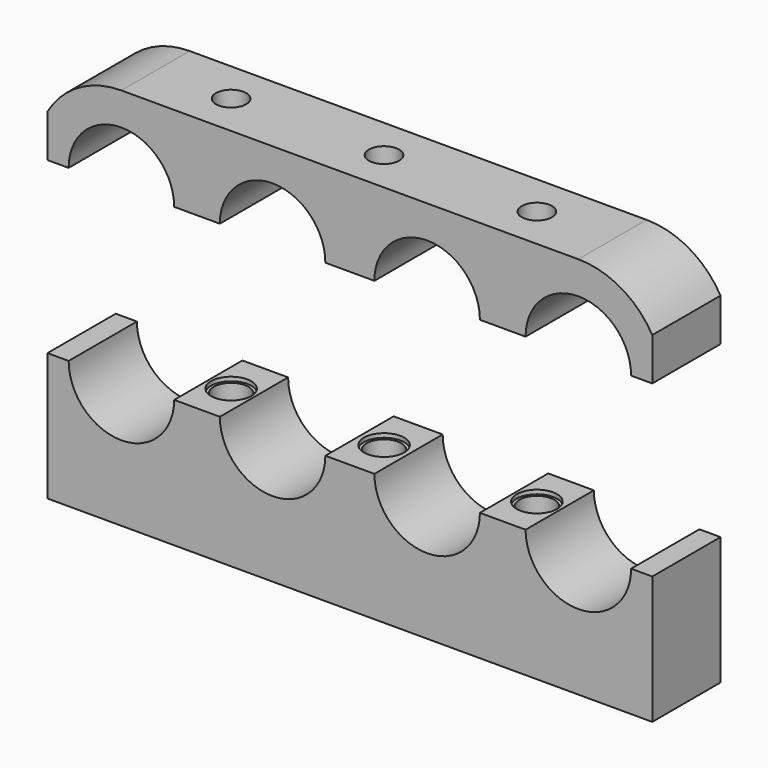
from build123d import *

# Parameters (mm, degrees)
F0_W      = 90
F0_H      = 19.05
F1_DEPTH  = 12.7
F2_R      = 7.85
F3_DEPTH  = 25.4
F4_W      = 90
F4_H      = 12.7
F5_DEPTH  = 12.7
F6_R      = 7.85
F7_DEPTH  = 25.4
F8_R      = 2.25
F9_DEPTH  = 25.4
F10_R     = 2.5908
F11_DEPTH = 20
F12_R     = 3
F13_DEPTH = 0.5
F14_DEPTH = 0.6
F16_DEPTH = 12.7


with BuildPart() as f1:
    # F0 (on Front) → F1 (new body)
    with BuildSketch(Plane.XZ):
        Rectangle(F0_W, F0_H)
    extrude(amount=F1_DEPTH)

    # F2 (on face) → F3 (cut)
    with BuildSketch(Plane.XZ.offset(12.7)):
        with Locations((-34, 9.525)):
            Circle(F2_R)
        with Locations((-11.5, 9.525)):
            Circle(F2_R)
        with Locations((11.5, 9.525)):
            Circle(F2_R)
        with Locations((34, 9.525)):
            Circle(F2_R)
    extrude(amount=-F3_DEPTH, mode=Mode.SUBTRACT)

    # F10 (on face) → F11 (cut)
    with BuildSketch(Plane.XY.offset(9.525)):
        with Locations((-22.75, -6.35)):
            Circle(F10_R)
        with Locations((0, -6.35)):
            Circle(F10_R)
        with Locations((22.75, -6.35)):
            Circle(F10_R)
    extrude(amount=-F11_DEPTH, mode=Mode.SUBTRACT)

    # F12 (on face) → F13 (cut)
    with BuildSketch(Plane.XY.offset(9.525)):
        with Locations((-22.75, -6.35)):
            Circle(F12_R)
        with Locations((22.75, -6.35)):
            Circle(F12_R)
        with Locations((0, -6.339623)):
            Circle(F12_R)
    extrude(amount=-F13_DEPTH, mode=Mode.SUBTRACT)

    # F12 (on face) → F14 (cut)
    with BuildSketch(Plane.XY.offset(9.525)):
        with Locations((-22.75, -6.35)):
            Circle(F12_R)
        with Locations((22.75, -6.35)):
            Circle(F12_R)
        with Locations((0, -6.339623)):
            Circle(F12_R)
    extrude(amount=-F14_DEPTH, mode=Mode.SUBTRACT)


with BuildPart() as f5:
    # F4 (on Front) → F5 (new body)
    with BuildSketch(Plane.XZ):
        with Locations((0, 41.162375)):
            Rectangle(F4_W, F4_H)
    extrude(amount=F5_DEPTH)

    # F6 (on face) → F7 (cut)
    with BuildSketch(Plane.XZ.offset(12.7)):
        with Locations((-34, 34.812375)):
            Circle(F6_R)
        with Locations((-11.5, 34.812375)):
            Circle(F6_R)
        with Locations((11.5, 34.812375)):
            Circle(F6_R)
        with Locations((34, 34.812375)):
            Circle(F6_R)
    extrude(amount=-F7_DEPTH, mode=Mode.SUBTRACT)

    # F8 (on face) → F9 (cut)
    with BuildSketch(Plane.XY.offset(47.512375)):
        with Locations((-22.75, -6.35)):
            Circle(F8_R)
        with Locations((0, -6.35)):
            Circle(F8_R)
        with Locations((22.75, -6.35)):
            Circle(F8_R)
    extrude(amount=-F9_DEPTH, mode=Mode.SUBTRACT)

    # F15 (on face) → F16 (cut, through all)
    with BuildSketch(Plane(origin=(0, 0, 0), x_dir=(-1, 0, 0), z_dir=(0, 1, 0))):
        with BuildLine():
            ThreePointArc((34, 47.512375), (40.35128, 45.810159), (45, 41.159816))
            Line((45, 41.159816), (45, 47.512375))
            Line((45, 47.512375), (34, 47.512375))
        make_face()
        with BuildLine():
            ThreePointArc((-45, 41.159816), (-40.35128, 45.810159), (-34, 47.512375))
            Line((-34, 47.512375), (-45, 47.512375))
            Line((-45, 47.512375), (-45, 41.159816))
        make_face()
    extrude(amount=-F16_DEPTH, mode=Mode.SUBTRACT)


solid = Compound([f1.part, f5.part])
